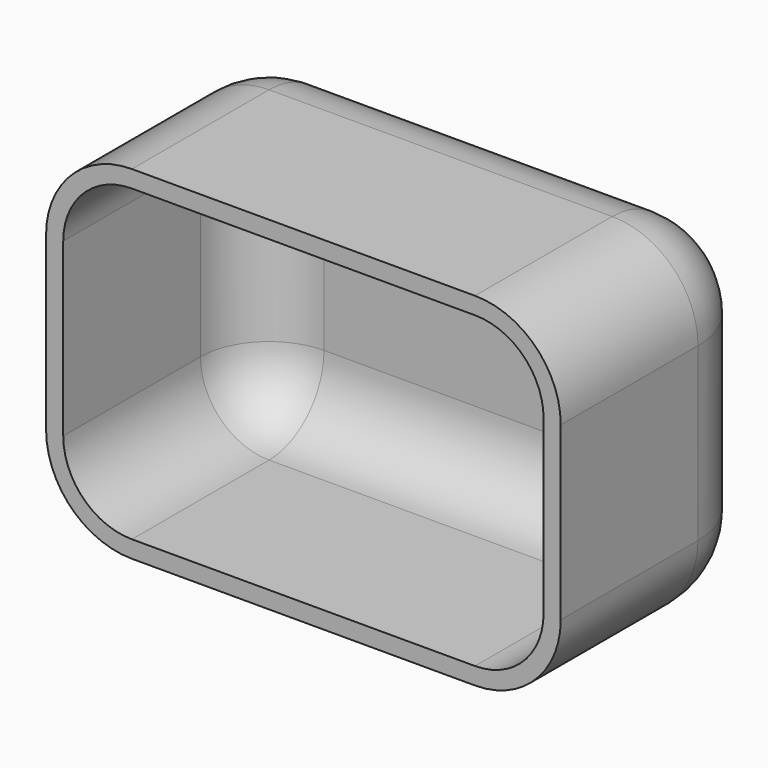
from build123d import *

# Parameters (mm, degrees)
F0_W     = 76.2
F0_H     = 50.8
F1_DEPTH = 38.1
F2_R     = 12.7
F3_R     = 12.7
F4_T     = -2.54


with BuildPart() as f1:
    # F0 (on Front) → F1 (new body)
    with BuildSketch(Plane.XZ):
        Rectangle(F0_W, F0_H)
    extrude(amount=F1_DEPTH)

    # F2
    f2_edges = [f1.edges().sort_by_distance(p)[0] for p in [
        (38.1, -19.05, 25.4),
        (38.1, -19.05, -25.4),
        (-38.1, -19.05, 25.4),
        (-38.1, -19.05, -25.4),
    ]]
    fillet(f2_edges, radius=F2_R)

    # F3
    f3_edges = [f1.edges().sort_by_distance(p)[0] for p in [
        (0, 0, 25.4),
    ]]
    fillet(f3_edges, radius=F3_R)

    # F4
    f4_openings = [f1.faces().sort_by_distance(p)[0] for p in [
        (0, -38.1, 0),
    ]]
    offset(amount=F4_T, openings=f4_openings)


solid = f1.part
